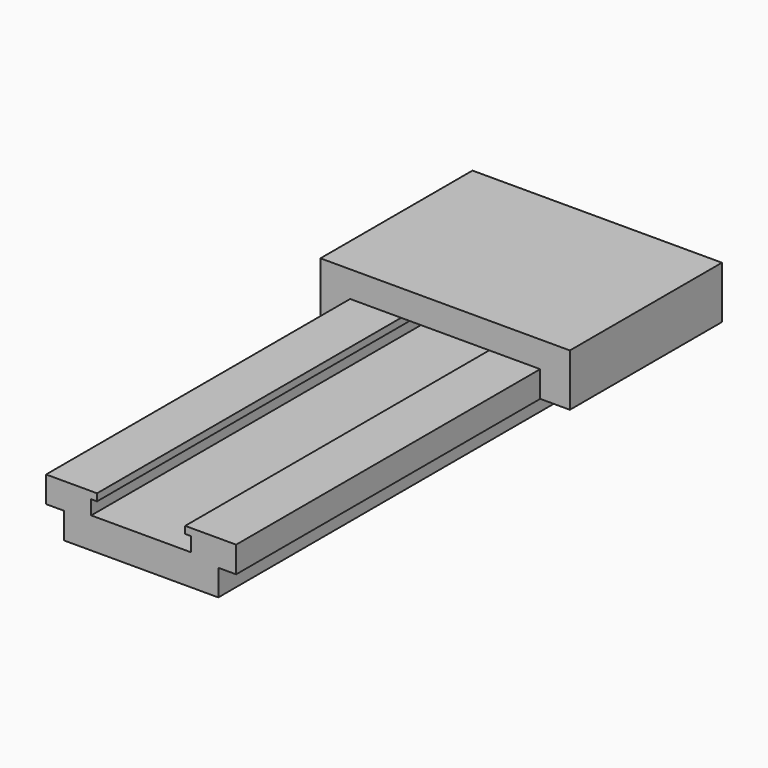
from build123d import *

# Parameters (mm, degrees)
F1_DEPTH = 304.8
F2_DEPTH = 101.6


with BuildPart() as f1:
    # F0 (on Front) → F1 (new body)
    with BuildSketch(Plane.XZ):
        Polygon((26.67, 16.51), (0, 16.51), (-26.67, 16.51), (-26.67, 24.13), (-23.559794, 24.13), (-23.559794, 27.94), (-50.8, 27.94), (-50.8, 13.97), (-41.275, 13.97), (-41.275, 1.27), (-41.275, 0), (0, 0), (41.275, 0), (41.275, 1.27), (41.275, 13.97), (50.8, 13.97), (50.8, 27.94), (23.559794, 27.94), (23.559794, 24.13), (26.67, 24.13), align=None)
    extrude(amount=F1_DEPTH)


with BuildPart() as f2:
    # F0 (on Front) → F2 (new body)
    with BuildSketch(Plane.XZ):
        Polygon((0, 27.94), (23.559794, 27.94), (50.8, 27.94), (50.8, 13.97), (66.675, 13.97), (66.675, 41.91), (0, 41.91), (-66.675, 41.91), (-66.675, 13.97), (-50.8, 13.97), (-50.8, 27.94), (-23.559794, 27.94), align=None)
    extrude(amount=F2_DEPTH)


solid = Compound([f1.part, f2.part])
